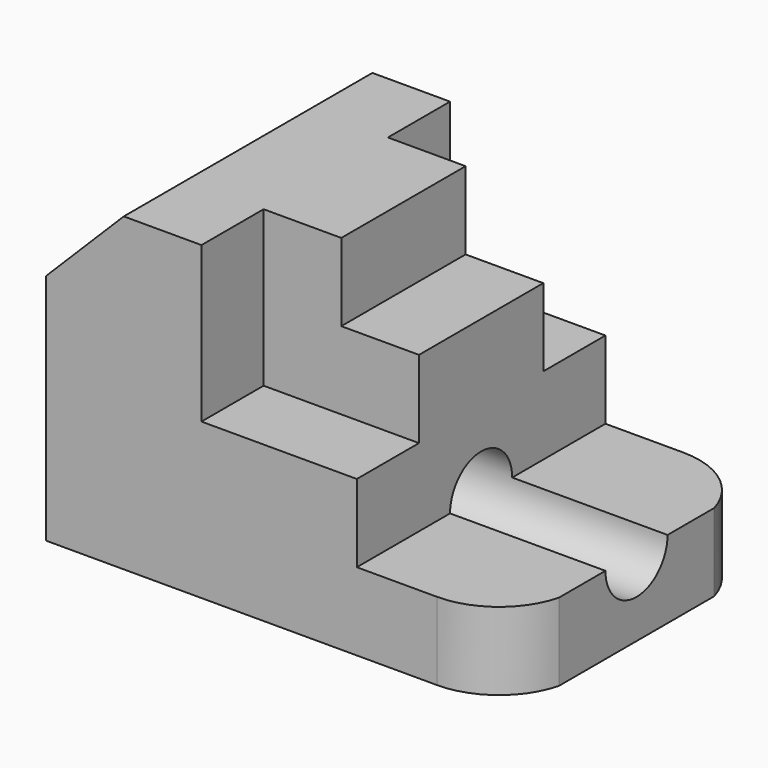
from build123d import *

# Parameters (mm, degrees)
F1_DEPTH      = 25.4
F1_DEPTH_BACK = 25.4
F2_W          = 25.4
F2_H          = 12.7
F3_DEPTH      = 12.7
F4_W          = 50.8
F4_H          = 12.7
F5_DEPTH      = 25.4
F6_W          = 25.4
F6_H          = 12.7
F7_DEPTH      = 12.7
F8_W          = 25.4
F8_H          = 12.7
F9_DEPTH      = 12.7
F10_R         = 6.35
F11_DEPTH     = 76.201
F13_DEPTH     = 12.701
F15_DEPTH     = 12.701


with BuildPart() as f1:
    # F0 (on Front) → F1 (new body, two sides)
    with BuildSketch(Plane.XZ) as f1_sk:
        Polygon((0, 38.1), (0, 0), (76.2, 0), (76.2, 12.7), (50.8, 12.7), (50.8, 25.4), (25.4, 25.4), (25.4, 50.8), (12.7, 50.8), align=None)
    extrude(amount=-F1_DEPTH)
    extrude(f1_sk.sketch, amount=F1_DEPTH_BACK)

    # F2 (on face) → F3 (join)
    with BuildSketch(Plane.YZ.offset(25.4)):
        with Locations((0, 44.45)):
            Rectangle(F2_W, F2_H)
    extrude(amount=F3_DEPTH)

    # F4 (on face) → F5 (join)
    with BuildSketch(Plane.YZ.offset(25.4)):
        with Locations((0, 31.75)):
            Rectangle(F4_W, F4_H)
    extrude(amount=F5_DEPTH)

    # F6 (on face) → F7 (cut)
    with BuildSketch(Plane.XZ.offset(25.4)):
        with Locations((38.1, 31.75)):
            Rectangle(F6_W, F6_H)
    extrude(amount=-F7_DEPTH, mode=Mode.SUBTRACT)

    # F8 (on face) → F9 (cut)
    with BuildSketch(Plane(origin=(0, 25.4, 0), x_dir=(-1, 0, 0), z_dir=(0, 1, 0))):
        with Locations((-38.1, 31.75)):
            Rectangle(F8_W, F8_H)
    extrude(amount=-F9_DEPTH, mode=Mode.SUBTRACT)

    # F10 (on face) → F11 (cut, through all)
    with BuildSketch(Plane.YZ.offset(76.2)):
        with Locations((0, 12.7)):
            Circle(F10_R)
    extrude(amount=-F11_DEPTH, mode=Mode.SUBTRACT)

    # F12 (on face) → F13 (cut, through all)
    with BuildSketch(Plane.XY.offset(12.7)):
        with BuildLine():
            Line((76.2, -25.4), (76.2, -15.875))
            ThreePointArc((76.2, -15.875), (71.6804078091, -22.740231571), (63.9032778758, -25.4))
            Line((63.9032778758, -25.4), (76.2, -25.4))
        make_face()
    extrude(amount=-F13_DEPTH, mode=Mode.SUBTRACT)

    # F14 (on face) → F15 (cut, through all)
    with BuildSketch(Plane.XY.offset(12.7)):
        with BuildLine():
            ThreePointArc((63.5, 25.4), (71.4375, 22.7541666667), (76.2, 15.875))
            Line((76.2, 15.875), (76.2, 25.4))
            Line((76.2, 25.4), (63.5, 25.4))
        make_face()
    extrude(amount=-F15_DEPTH, mode=Mode.SUBTRACT)


solid = f1.part
